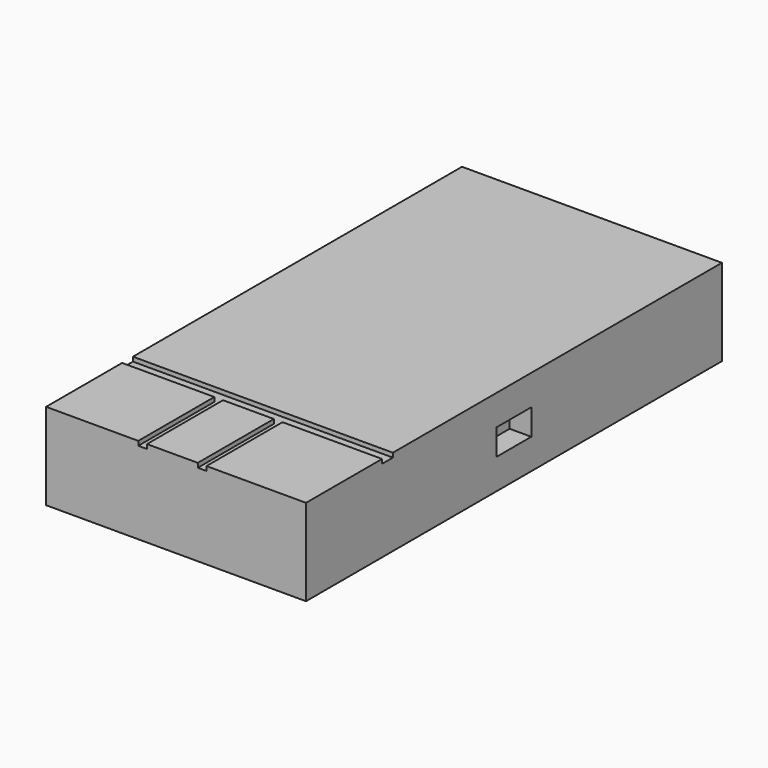
from build123d import *

# Parameters (mm, degrees)
F0_W     = 60
F0_H     = 20
F1_DEPTH = 120
F2_W     = 60
F2_H     = 3.121510148
F3_DEPTH = 1
F4_W     = 2
F4_H     = 21.938483119
F5_DEPTH = 1
F6_W     = 10
F6_H     = 6
F7_DEPTH = 5
F8_W     = 10
F8_H     = 6
F9_DEPTH = 5


with BuildPart() as f1:
    # F0 (on Front) → F1 (new body)
    with BuildSketch(Plane.XZ):
        with Locations((30, 10)):
            Rectangle(F0_W, F0_H)
    extrude(amount=F1_DEPTH)

    # F2 (on face) → F3 (cut)
    with BuildSketch(Plane.XY.offset(20)):
        with Locations((30, -96.500761807)):
            Rectangle(F2_W, F2_H)
    extrude(amount=-F3_DEPTH, mode=Mode.SUBTRACT)

    # F4 (on face) → F5 (cut)
    with BuildSketch(Plane.XY.offset(20)):
        with Locations((36.0219793618, -109.0307584405)):
            Rectangle(F4_W, F4_H)
        with Locations((22.2871395051, -109.0307584405)):
            Rectangle(F4_W, F4_H)
    extrude(amount=-F5_DEPTH, mode=Mode.SUBTRACT)

    # F6 (on face) → F7 (cut)
    with BuildSketch(Plane.YZ.offset(60)):
        with Locations((-60, 10)):
            Rectangle(F6_W, F6_H)
    extrude(amount=-F7_DEPTH, mode=Mode.SUBTRACT)

    # F8 (on face) → F9 (cut)
    with BuildSketch(Plane(origin=(0, 0, 0), x_dir=(0, -1, 0), z_dir=(-1, 0, 0))):
        with Locations((60, 10)):
            Rectangle(F8_W, F8_H)
    extrude(amount=-F9_DEPTH, mode=Mode.SUBTRACT)


solid = f1.part
